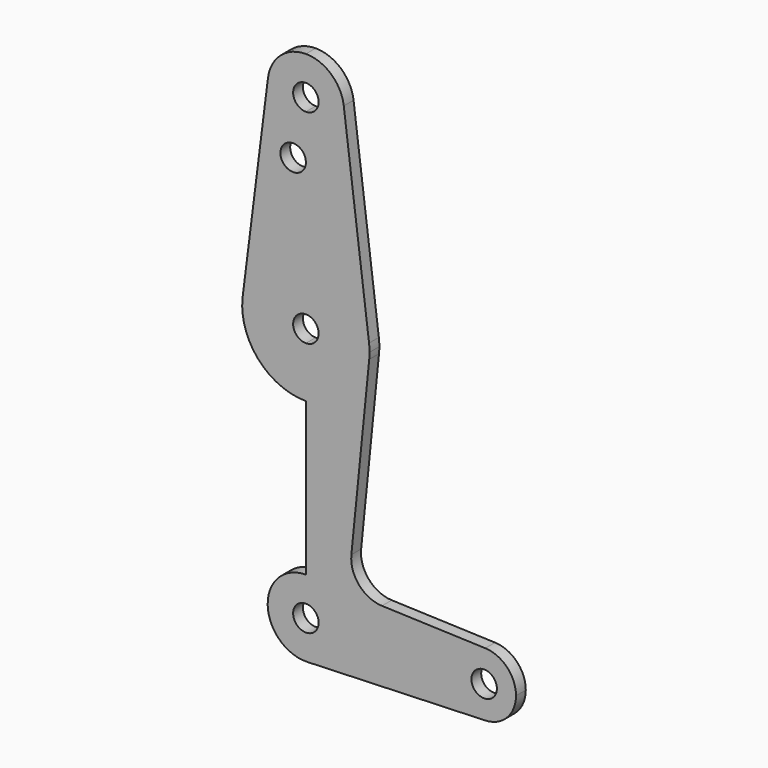
from build123d import *

# Parameters (mm, degrees)
F0_R     = 3.175
F1_DEPTH = 3.048


with BuildPart() as f1:
    # F0 (on Front) → F1 (new body)
    with BuildSketch(Plane.XZ):
        with BuildLine():
            ThreePointArc((9.525, 0), (6.7351920908, 6.7351920908), (0, 9.525))
            ThreePointArc((0, 9.525), (-9.5234807399, -0.1701164197), (0.3401785714, -9.5189234444))
            ThreePointArc((0.3401785714, -9.5189234444), (6.8544082857, -6.6138273378), (9.525, 0))
        make_face()
        with BuildLine():
            ThreePointArc((3.175, 0), (-2.2450640303, -2.2450640303), (0, 3.175))
            ThreePointArc((0, 3.175), (2.2450640303, 2.2450640303), (3.175, 0))
        make_face(mode=Mode.SUBTRACT)
        with BuildLine():
            Line((0, 47.625), (0, 9.525))
            ThreePointArc((0, 9.525), (6.7351920908, 6.7351920908), (9.525, 0))
            ThreePointArc((9.525, 0), (6.8544082857, -6.6138273378), (0.3401785714, -9.5189234444))
            Line((0.3401785714, -9.5189234444), (44.7334821429, -7.9324362036))
            ThreePointArc((44.7334821429, -7.9324362036), (36.5125, 0), (44.7334821429, 7.9324362036))
            Line((44.7334821429, 7.9324362036), (18.9676000005, 8.8532337108))
            ThreePointArc((18.9676000005, 8.8532337108), (13.2611998974, 11.5713591498), (11.3411865923, 17.5933818124))
            Line((11.3411865923, 17.5933818124), (15.7954255641, 61.9125))
            ThreePointArc((15.7954255641, 61.9125), (10.6492737428, 51.7267849017), (0, 47.625))
        make_face()
        with BuildLine():
            ThreePointArc((-15.7954255641, 61.9125), (-10.6492737428, 51.7267849017), (0, 47.625))
            Line((0, 47.625), (0, 60.325))
            ThreePointArc((0, 60.325), (-3.175, 63.5), (0, 66.675))
            Line((0, 66.675), (0, 79.375))
            ThreePointArc((0, 79.375), (-10.5003255158, 75.40625), (-15.7504882737, 65.484375))
            ThreePointArc((-15.7504882737, 65.484375), (-15.8737438155, 63.6997054867), (-15.7954255641, 61.9125))
        make_face()
        with BuildLine():
            Line((0, 60.325), (0, 47.625))
            ThreePointArc((0, 47.625), (10.6492737428, 51.7267849017), (15.7954255641, 61.9125))
            ThreePointArc((15.7954255641, 61.9125), (15.8550939106, 62.7052534459), (15.875, 63.5))
            ThreePointArc((15.875, 63.5), (15.8438414904, 64.4941387366), (15.7504882737, 65.484375))
            ThreePointArc((15.7504882737, 65.484375), (10.5003255158, 75.40625), (0, 79.375))
            Line((0, 79.375), (0, 66.675))
            ThreePointArc((0, 66.675), (2.2450640303, 65.7450640303), (3.175, 63.5))
            ThreePointArc((3.175, 63.5), (2.2450640303, 61.2549359697), (0, 60.325))
        make_face()
        with BuildLine():
            ThreePointArc((44.7334821429, 7.9324362036), (36.5125, 0), (44.7334821429, -7.9324362036))
            ThreePointArc((44.7334821429, -7.9324362036), (50.1620069047, -5.5115227815), (52.3875, 0))
            ThreePointArc((52.3875, 0), (50.1620069047, 5.5115227815), (44.7334821429, 7.9324362036))
        make_face()
        with Locations((44.45, 0)):
            Circle(F0_R, mode=Mode.SUBTRACT)
        with BuildLine():
            Line((-9.4502929642, 115.490625), (-15.7504882737, 65.484375))
            ThreePointArc((-15.7504882737, 65.484375), (-10.5003255158, 75.40625), (0, 79.375))
            Line((0, 79.375), (0, 100.0252))
            Line((0, 100.0252), (0, 104.775))
            ThreePointArc((0, 104.775), (-7.14375, 107.9998046905), (-9.4502929642, 115.490625))
        make_face()
        with Locations((-3.175, 100.0252)):
            Circle(F0_R, mode=Mode.SUBTRACT)
        with BuildLine():
            Line((0, 100.0252), (0, 79.375))
            ThreePointArc((0, 79.375), (10.5003255158, 75.40625), (15.7504882737, 65.484375))
            Line((15.7504882737, 65.484375), (9.4502929642, 115.490625))
            ThreePointArc((9.4502929642, 115.490625), (9.5063048942, 114.896483242), (9.525, 114.3))
            ThreePointArc((9.525, 114.3), (6.7351920908, 107.5648079092), (0, 104.775))
            Line((0, 104.775), (0, 100.0252))
        make_face()
        with BuildLine():
            ThreePointArc((0, 123.825), (-6.3001953095, 121.44375), (-9.4502929642, 115.490625))
            ThreePointArc((-9.4502929642, 115.490625), (-7.14375, 107.9998046905), (0, 104.775))
            Line((0, 104.775), (0, 111.125))
            ThreePointArc((0, 111.125), (-3.175, 114.3), (0, 117.475))
            Line((0, 117.475), (0, 123.825))
        make_face()
        with BuildLine():
            ThreePointArc((9.4502929642, 115.490625), (6.3001953095, 121.44375), (0, 123.825))
            Line((0, 123.825), (0, 117.475))
            ThreePointArc((0, 117.475), (2.2450640303, 116.5450640303), (3.175, 114.3))
            ThreePointArc((3.175, 114.3), (2.2450640303, 112.0549359697), (0, 111.125))
            Line((0, 111.125), (0, 104.775))
            ThreePointArc((0, 104.775), (6.7351920908, 107.5648079092), (9.525, 114.3))
            ThreePointArc((9.525, 114.3), (9.5063048942, 114.896483242), (9.4502929642, 115.490625))
        make_face()
    extrude(amount=F1_DEPTH)


solid = f1.part
